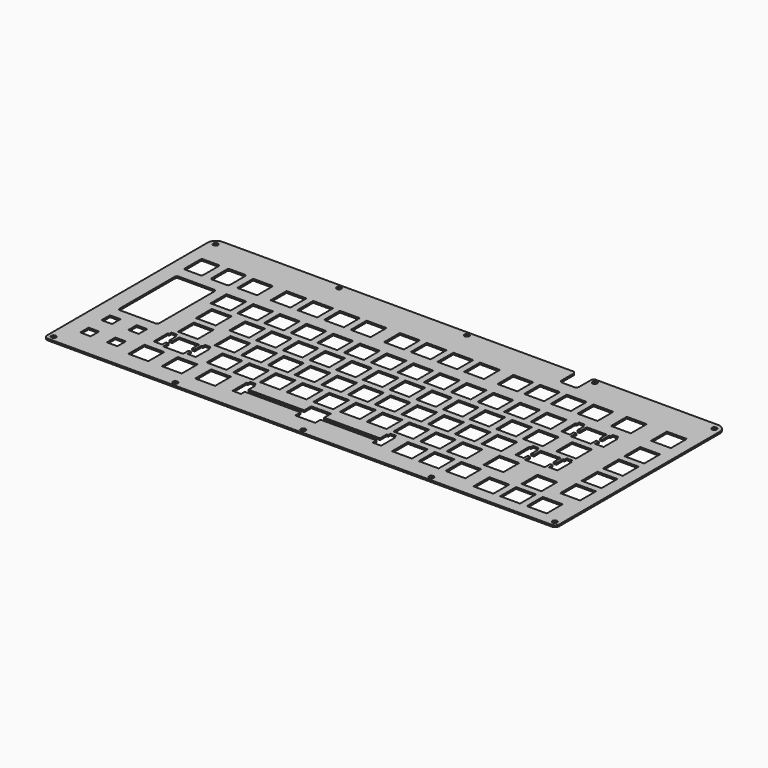
from build123d import *

# Parameters (mm, degrees)
SKETCH060_R     = 1.7
PAD013_DEPTH    = 1.2
SKETCH059_W     = 14.2
SKETCH059_H     = 14.2
POCKET045_DEPTH = 5
SKETCH061_W     = 14.2
SKETCH061_H     = 14.2
POCKET046_DEPTH = 5
SKETCH062_W     = 14.2
SKETCH062_H     = 14.2
POCKET047_DEPTH = 5
SKETCH063_W     = 14.2
SKETCH063_H     = 14.2
POCKET048_DEPTH = 5
SKETCH064_W     = 14.2
SKETCH064_H     = 14.2
POCKET049_DEPTH = 5
SKETCH065_W     = 14.2
SKETCH065_H     = 14.2
POCKET050_DEPTH = 5
POCKET051_DEPTH = 5
POCKET052_DEPTH = 5
SKETCH068_W     = 7.5
SKETCH068_H     = 7.5
POCKET053_DEPTH = 5
POCKET054_DEPTH = 5
POCKET055_DEPTH = 5
POCKET056_DEPTH = 5
POCKET057_DEPTH = 5
POCKET058_DEPTH = 5


with BuildPart() as part:
    # Sketch060 → Pad013 (new body)
    with BuildSketch(Plane.XY.offset(2.9)):
        with BuildLine():
            Line((-6.5, 0.5), (-6.5, -142.5))
            ThreePointArc((-6.5, -142.5), (-5.62132, -144.62132), (-3.5, -145.5))
            Line((-3.5, -145.5), (355.925, -145.5))
            ThreePointArc((355.925, -145.5), (358.04632, -144.62132), (358.925, -142.5))
            Line((358.925, -142.5), (358.925, 0.5))
            ThreePointArc((358.925, 0.5), (357.167641, 4.742641), (352.925, 6.5))
            Line((352.925, 6.5), (-0.5, 6.5))
            ThreePointArc((-0.5, 6.5), (-4.742641, 4.742641), (-6.5, 0.5))
        make_face()
        with Locations((-1.742629, 1.742635)):
            Circle(SKETCH060_R, mode=Mode.SUBTRACT)
        with Locations((354.167629, 1.742635)):
            Circle(SKETCH060_R, mode=Mode.SUBTRACT)
        with Locations((84.85625, 3.5)):
            Circle(SKETCH060_R, mode=Mode.SUBTRACT)
        with Locations((176.2125, 3.5)):
            Circle(SKETCH060_R, mode=Mode.SUBTRACT)
        with Locations((267.56875, 3.5)):
            Circle(SKETCH060_R, mode=Mode.SUBTRACT)
        with Locations((-2.621309, -141.621315)):
            Circle(SKETCH060_R, mode=Mode.SUBTRACT)
        with Locations((355.046378, -141.621312)):
            Circle(SKETCH060_R, mode=Mode.SUBTRACT)
        with Locations((84.85625, -142.5)):
            Circle(SKETCH060_R, mode=Mode.SUBTRACT)
        with Locations((176.2125, -142.5)):
            Circle(SKETCH060_R, mode=Mode.SUBTRACT)
        with Locations((267.56875, -142.5)):
            Circle(SKETCH060_R, mode=Mode.SUBTRACT)
    extrude(amount=PAD013_DEPTH)

    # Sketch059 → Pocket045 (cut)
    with BuildSketch(Plane.XY.offset(4.1)):
        with Locations((47.625, -24.7)):
            Rectangle(SKETCH059_W, SKETCH059_H)
        with Locations((71.4375, -24.7)):
            Rectangle(SKETCH059_W, SKETCH059_H)
        with Locations((90.4875, -24.7)):
            Rectangle(SKETCH059_W, SKETCH059_H)
        with Locations((109.5375, -24.7)):
            Rectangle(SKETCH059_W, SKETCH059_H)
        with Locations((128.5875, -24.7)):
            Rectangle(SKETCH059_W, SKETCH059_H)
        with Locations((152.4, -24.7)):
            Rectangle(SKETCH059_W, SKETCH059_H)
        with Locations((171.45, -24.7)):
            Rectangle(SKETCH059_W, SKETCH059_H)
        with Locations((190.5, -24.7)):
            Rectangle(SKETCH059_W, SKETCH059_H)
        with Locations((209.55, -24.7)):
            Rectangle(SKETCH059_W, SKETCH059_H)
        with Locations((233.3625, -24.7)):
            Rectangle(SKETCH059_W, SKETCH059_H)
        with Locations((252.4125, -24.7)):
            Rectangle(SKETCH059_W, SKETCH059_H)
        with Locations((271.4625, -24.7)):
            Rectangle(SKETCH059_W, SKETCH059_H)
        with Locations((290.5125, -24.7)):
            Rectangle(SKETCH059_W, SKETCH059_H)
        with Locations((314.325, -24.7)):
            Rectangle(SKETCH059_W, SKETCH059_H)
        with Locations((342.9, -24.7)):
            Rectangle(SKETCH059_W, SKETCH059_H)
    extrude(amount=-POCKET045_DEPTH, mode=Mode.SUBTRACT)

    # Sketch061 → Pocket046 (cut)
    with BuildSketch(Plane.XY.offset(4.1)):
        with Locations((47.625, -48.5125)):
            Rectangle(SKETCH061_W, SKETCH061_H)
        with Locations((66.675, -48.5125)):
            Rectangle(SKETCH061_W, SKETCH061_H)
        with Locations((85.725, -48.5125)):
            Rectangle(SKETCH061_W, SKETCH061_H)
        with Locations((104.775, -48.5125)):
            Rectangle(SKETCH061_W, SKETCH061_H)
        with Locations((123.825, -48.5125)):
            Rectangle(SKETCH061_W, SKETCH061_H)
        with Locations((142.875, -48.5125)):
            Rectangle(SKETCH061_W, SKETCH061_H)
        with Locations((161.925, -48.5125)):
            Rectangle(SKETCH061_W, SKETCH061_H)
        with Locations((180.975, -48.5125)):
            Rectangle(SKETCH061_W, SKETCH061_H)
        with Locations((200.025, -48.5125)):
            Rectangle(SKETCH061_W, SKETCH061_H)
        with Locations((219.075, -48.5125)):
            Rectangle(SKETCH061_W, SKETCH061_H)
        with Locations((238.125, -48.5125)):
            Rectangle(SKETCH061_W, SKETCH061_H)
        with Locations((257.175, -48.5125)):
            Rectangle(SKETCH061_W, SKETCH061_H)
        with Locations((276.225, -48.5125)):
            Rectangle(SKETCH061_W, SKETCH061_H)
        with Locations((304.8, -48.5125)):
            Rectangle(SKETCH061_W, SKETCH061_H)
        with Locations((342.9, -48.5125)):
            Rectangle(SKETCH061_W, SKETCH061_H)
    extrude(amount=-POCKET046_DEPTH, mode=Mode.SUBTRACT)

    # Sketch062 → Pocket047 (cut)
    with BuildSketch(Plane.XY.offset(4.1)):
        with Locations((52.3875, -67.5625)):
            Rectangle(SKETCH062_W, SKETCH062_H)
        with Locations((76.2, -67.5625)):
            Rectangle(SKETCH062_W, SKETCH062_H)
        with Locations((95.25, -67.5625)):
            Rectangle(SKETCH062_W, SKETCH062_H)
        with Locations((114.3, -67.5625)):
            Rectangle(SKETCH062_W, SKETCH062_H)
        with Locations((133.35, -67.5625)):
            Rectangle(SKETCH062_W, SKETCH062_H)
        with Locations((152.4, -67.5625)):
            Rectangle(SKETCH062_W, SKETCH062_H)
        with Locations((171.45, -67.5625)):
            Rectangle(SKETCH062_W, SKETCH062_H)
        with Locations((190.5, -67.5625)):
            Rectangle(SKETCH062_W, SKETCH062_H)
        with Locations((209.55, -67.5625)):
            Rectangle(SKETCH062_W, SKETCH062_H)
        with Locations((228.6, -67.5625)):
            Rectangle(SKETCH062_W, SKETCH062_H)
        with Locations((247.65, -67.5625)):
            Rectangle(SKETCH062_W, SKETCH062_H)
        with Locations((266.7, -67.5625)):
            Rectangle(SKETCH062_W, SKETCH062_H)
        with Locations((285.75, -67.5625)):
            Rectangle(SKETCH062_W, SKETCH062_H)
        with Locations((309.5625, -67.5625)):
            Rectangle(SKETCH062_W, SKETCH062_H)
        with Locations((342.9, -67.5625)):
            Rectangle(SKETCH062_W, SKETCH062_H)
    extrude(amount=-POCKET047_DEPTH, mode=Mode.SUBTRACT)

    # Sketch063 → Pocket048 (cut)
    with BuildSketch(Plane.XY.offset(4.1)):
        with Locations((54.76875, -86.6125)):
            Rectangle(SKETCH063_W, SKETCH063_H)
        with Locations((80.9625, -86.6125)):
            Rectangle(SKETCH063_W, SKETCH063_H)
        with Locations((100.0125, -86.6125)):
            Rectangle(SKETCH063_W, SKETCH063_H)
        with Locations((119.0625, -86.6125)):
            Rectangle(SKETCH063_W, SKETCH063_H)
        with Locations((138.1125, -86.6125)):
            Rectangle(SKETCH063_W, SKETCH063_H)
        with Locations((157.1625, -86.6125)):
            Rectangle(SKETCH063_W, SKETCH063_H)
        with Locations((176.2125, -86.6125)):
            Rectangle(SKETCH063_W, SKETCH063_H)
        with Locations((195.2625, -86.6125)):
            Rectangle(SKETCH063_W, SKETCH063_H)
        with Locations((214.3125, -86.6125)):
            Rectangle(SKETCH063_W, SKETCH063_H)
        with Locations((233.3625, -86.6125)):
            Rectangle(SKETCH063_W, SKETCH063_H)
        with Locations((252.4125, -86.6125)):
            Rectangle(SKETCH063_W, SKETCH063_H)
        with Locations((271.4625, -86.6125)):
            Rectangle(SKETCH063_W, SKETCH063_H)
        with Locations((302.41875, -86.6125)):
            Rectangle(SKETCH063_W, SKETCH063_H)
        with Locations((342.9, -86.6125)):
            Rectangle(SKETCH063_W, SKETCH063_H)
    extrude(amount=-POCKET048_DEPTH, mode=Mode.SUBTRACT)

    # Sketch064 → Pocket049 (cut)
    with BuildSketch(Plane.XY.offset(4.1)):
        with Locations((59.53125, -105.6625)):
            Rectangle(SKETCH064_W, SKETCH064_H)
        with Locations((90.4875, -105.6625)):
            Rectangle(SKETCH064_W, SKETCH064_H)
        with Locations((109.5375, -105.6625)):
            Rectangle(SKETCH064_W, SKETCH064_H)
        with Locations((128.5875, -105.6625)):
            Rectangle(SKETCH064_W, SKETCH064_H)
        with Locations((147.6375, -105.6625)):
            Rectangle(SKETCH064_W, SKETCH064_H)
        with Locations((166.6875, -105.6625)):
            Rectangle(SKETCH064_W, SKETCH064_H)
        with Locations((185.7375, -105.6625)):
            Rectangle(SKETCH064_W, SKETCH064_H)
        with Locations((204.7875, -105.6625)):
            Rectangle(SKETCH064_W, SKETCH064_H)
        with Locations((223.8375, -105.6625)):
            Rectangle(SKETCH064_W, SKETCH064_H)
        with Locations((242.8875, -105.6625)):
            Rectangle(SKETCH064_W, SKETCH064_H)
        with Locations((261.9375, -105.6625)):
            Rectangle(SKETCH064_W, SKETCH064_H)
        with Locations((288.13125, -105.6625)):
            Rectangle(SKETCH064_W, SKETCH064_H)
        with Locations((319.0875, -110.425)):
            Rectangle(SKETCH064_W, SKETCH064_H)
        with Locations((342.9, -105.6625)):
            Rectangle(SKETCH064_W, SKETCH064_H)
    extrude(amount=-POCKET049_DEPTH, mode=Mode.SUBTRACT)

    # Sketch065 → Pocket050 (cut)
    with BuildSketch(Plane.XY.offset(4.1)):
        with Locations((50.00625, -124.7125)):
            Rectangle(SKETCH065_W, SKETCH065_H)
        with Locations((73.81875, -124.7125)):
            Rectangle(SKETCH065_W, SKETCH065_H)
        with Locations((97.63125, -124.7125)):
            Rectangle(SKETCH065_W, SKETCH065_H)
        with Locations((169.06875, -124.7125)):
            Rectangle(SKETCH065_W, SKETCH065_H)
        with Locations((238.125, -124.7125)):
            Rectangle(SKETCH065_W, SKETCH065_H)
        with Locations((257.175, -124.7125)):
            Rectangle(SKETCH065_W, SKETCH065_H)
        with Locations((276.225, -124.7125)):
            Rectangle(SKETCH065_W, SKETCH065_H)
        with Locations((300.0375, -129.475)):
            Rectangle(SKETCH065_W, SKETCH065_H)
        with Locations((319.0875, -129.475)):
            Rectangle(SKETCH065_W, SKETCH065_H)
        with Locations((338.1375, -129.475)):
            Rectangle(SKETCH065_W, SKETCH065_H)
    extrude(amount=-POCKET050_DEPTH, mode=Mode.SUBTRACT)

    # Sketch066 → Pocket051 (cut)
    with BuildSketch(Plane.XY.offset(4.1)):
        with BuildLine():
            Line((22.075, -17.95), (22.075, -31.45))
            ThreePointArc((22.075, -31.45), (22.441117, -32.333883), (23.325, -32.7))
            Line((23.325, -32.7), (33.825, -32.7))
            ThreePointArc((33.825, -32.7), (34.708883, -32.333883), (35.075, -31.45))
            Line((35.075, -31.45), (35.075, -17.95))
            ThreePointArc((35.075, -17.95), (34.708883, -17.066117), (33.825, -16.7))
            Line((33.825, -16.7), (23.325, -16.7))
            ThreePointArc((23.325, -16.7), (22.441117, -17.066117), (22.075, -17.95))
        make_face()
        with BuildLine():
            Line((3.025, -17.95), (3.025, -31.45))
            ThreePointArc((3.025, -31.45), (3.391117, -32.333883), (4.275, -32.7))
            Line((4.275, -32.7), (14.775, -32.7))
            ThreePointArc((14.775, -32.7), (15.658883, -32.333883), (16.025, -31.45))
            Line((16.025, -31.45), (16.025, -17.95))
            ThreePointArc((16.025, -17.95), (15.658883, -17.066117), (14.775, -16.7))
            Line((14.775, -16.7), (4.275, -16.7))
            ThreePointArc((4.275, -16.7), (3.391117, -17.066117), (3.025, -17.95))
        make_face()
    extrude(amount=-POCKET051_DEPTH, mode=Mode.SUBTRACT)

    # Sketch067 → Pocket052 (cut)
    with BuildSketch(Plane.XY.offset(4.1)):
        with BuildLine():
            Line((4.9, -42.9625), (4.9, -92.1625))
            ThreePointArc((4.9, -92.1625), (5.33934, -93.22316), (6.4, -93.6625))
            Line((6.4, -93.6625), (31.7, -93.6625))
            ThreePointArc((31.7, -93.6625), (32.76066, -93.22316), (33.2, -92.1625))
            Line((33.2, -92.1625), (33.2, -42.9625))
            ThreePointArc((33.2, -42.9625), (32.76066, -41.90184), (31.7, -41.4625))
            Line((31.7, -41.4625), (6.4, -41.4625))
            ThreePointArc((6.4, -41.4625), (5.33934, -41.90184), (4.9, -42.9625))
        make_face()
    extrude(amount=-POCKET052_DEPTH, mode=Mode.SUBTRACT)

    # Sketch068 → Pocket053 (cut)
    with BuildSketch(Plane.XY.offset(4.1)):
        with Locations((9.525, -124.7125)):
            Rectangle(SKETCH068_W, SKETCH068_H)
        with Locations((28.575, -124.7125)):
            Rectangle(SKETCH068_W, SKETCH068_H)
        with Locations((28.575, -105.6625)):
            Rectangle(SKETCH068_W, SKETCH068_H)
        with Locations((9.525, -105.6625)):
            Rectangle(SKETCH068_W, SKETCH068_H)
    extrude(amount=-POCKET053_DEPTH, mode=Mode.SUBTRACT)

    # Sketch069 → Pocket054 (cut)
    with BuildSketch(Plane.XY.offset(4.1)):
        Polygon((116.01875, -117.7925), (116.01875, -130.3925), (122.11875, -130.3925), (122.11875, -127.0025), (216.01875, -127.0025), (216.01875, -130.3925), (222.11875, -130.3925), (222.11875, -117.7925), (221.06875, -117.7925), (221.06875, -115.7925), (217.06875, -115.7925), (217.06875, -117.7925), (216.01875, -117.7925), (216.01875, -123.8025), (122.11875, -123.8025), (122.11875, -117.7925), (121.06875, -117.7925), (121.06875, -115.7925), (117.06875, -115.7925), (117.06875, -117.7925), align=None)
    extrude(amount=-POCKET054_DEPTH, mode=Mode.SUBTRACT)

    # Sketch070 → Pocket055 (cut)
    with BuildSketch(Plane.XY.offset(4.1)):
        Polygon((44.48125, -98.7425), (44.48125, -111.3425), (50.58125, -111.3425), (50.58125, -107.9525), (68.48125, -107.9525), (68.48125, -111.3425), (74.58125, -111.3425), (74.58125, -98.7425), (73.53125, -98.7425), (73.53125, -96.7425), (69.53125, -96.7425), (69.53125, -98.7425), (68.48125, -98.7425), (68.48125, -104.7525), (50.58125, -104.7525), (50.58125, -98.7425), (49.53125, -98.7425), (49.53125, -96.7425), (45.53125, -96.7425), (45.53125, -98.7425), align=None)
    extrude(amount=-POCKET055_DEPTH, mode=Mode.SUBTRACT)

    # Sketch071 → Pocket056 (cut)
    with BuildSketch(Plane.XY.offset(4.1)):
        Polygon((287.36875, -79.6925), (287.36875, -92.2925), (293.46875, -92.2925), (293.46875, -88.9025), (311.36875, -88.9025), (311.36875, -92.2925), (317.46875, -92.2925), (317.46875, -79.6925), (316.41875, -79.6925), (316.41875, -77.6925), (312.41875, -77.6925), (312.41875, -79.6925), (311.36875, -79.6925), (311.36875, -85.7025), (293.46875, -85.7025), (293.46875, -79.6925), (292.41875, -79.6925), (292.41875, -77.6925), (288.41875, -77.6925), (288.41875, -79.6925), align=None)
    extrude(amount=-POCKET056_DEPTH, mode=Mode.SUBTRACT)

    # Sketch072 → Pocket057 (cut)
    with BuildSketch(Plane.XY.offset(4.1)):
        Polygon((289.75, -41.5925), (289.75, -54.1925), (295.85, -54.1925), (295.85, -50.8025), (313.75, -50.8025), (313.75, -54.1925), (319.85, -54.1925), (319.85, -41.5925), (318.8, -41.5925), (318.8, -39.5925), (314.8, -39.5925), (314.8, -41.5925), (313.75, -41.5925), (313.75, -47.6025), (295.85, -47.6025), (295.85, -41.5925), (294.8, -41.5925), (294.8, -39.5925), (290.8, -39.5925), (290.8, -41.5925), align=None)
    extrude(amount=-POCKET057_DEPTH, mode=Mode.SUBTRACT)

    # Sketch073 → Pocket058 (cut)
    with BuildSketch(Plane.XY.offset(5)):
        with BuildLine():
            Line((253.425, -8), (261.925, -8))
            ThreePointArc((261.925, -8), (263.339214, -7.414214), (263.925, -6))
            Line((263.925, -6), (263.925, 4.5))
            ThreePointArc((265.925, 6.5), (264.510786, 5.914214), (263.925, 4.5))
            Line((265.925, 6.5), (398.556656, 6.5))
            Line((398.556656, 6.5), (398.556656, 82.324766))
            Line((398.556656, 82.324766), (-27.364742, 82.324766))
            Line((-27.364742, 82.324766), (-27.364742, 6.5))
            Line((249.425, 6.5), (-27.364742, 6.5))
            ThreePointArc((251.425, 4.5), (250.839214, 5.914214), (249.425, 6.5))
            Line((251.425, -6), (251.425, 4.5))
            ThreePointArc((251.425, -6), (252.010786, -7.414214), (253.425, -8))
        make_face()
    extrude(amount=-POCKET058_DEPTH, mode=Mode.SUBTRACT)


solid = part.part
